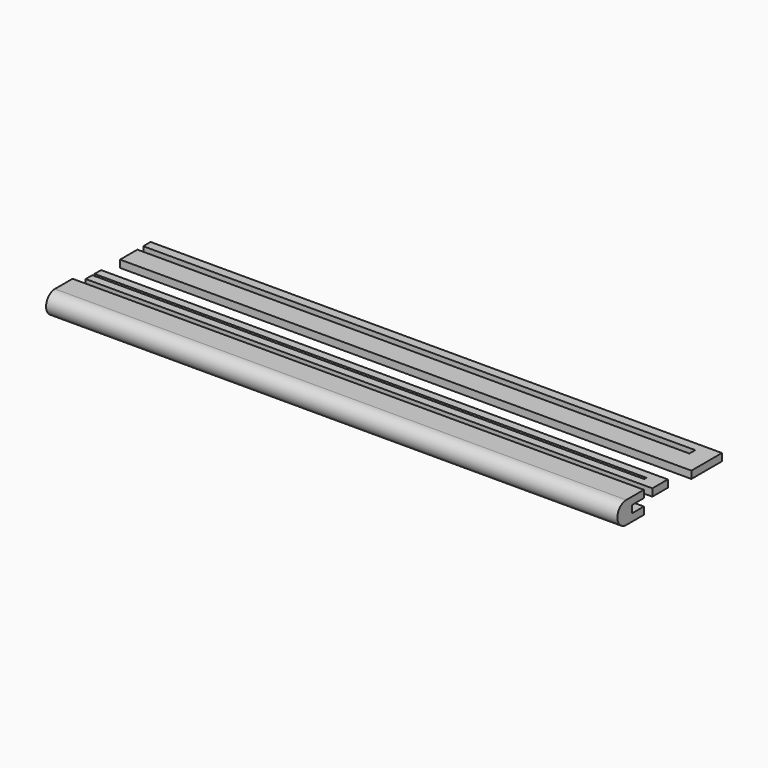
from build123d import *

# Parameters (mm, degrees)
F2_DEPTH = 8
F3_DEPTH = 8
F5_DEPTH = 600
F6_DEPTH = 21


with BuildPart() as f2:
    # F0 (on Top) → F2 (new body)
    with BuildSketch(Plane.XY):
        Polygon((581.663213, 16.226503), (-18.336787, 16.226503), (-18.336787, 7.226503), (581.663213, 7.226503), (581.663213, 4.226503), (-18.336787, 4.226503), (-18.336787, -4.773497), (581.663213, -4.773497), (597.663213, -4.773497), (597.663213, 16.226503), align=None)
    extrude(amount=F2_DEPTH)


with BuildPart() as f3:
    # F1 (on Top) → F3 (new body)
    with BuildSketch(Plane.XY):
        Polygon((-17.790569, 64.843432), (-17.790569, 41.343432), (582.209431, 41.343432), (603.209431, 41.343432), (603.209431, 82.843432), (582.209431, 82.843432), (-17.790569, 82.843432), (-17.790569, 72.843432), (582.209431, 72.843432), (582.209431, 64.843432), align=None)
    extrude(amount=F3_DEPTH)


with BuildPart() as f5:
    # F4 (on Right) → F5 (new body)
    with BuildSketch(Plane.YZ):
        with BuildLine():
            Line((-19.1921, 5.23994), (-19.1921, 13.23994))
            Line((-19.1921, 13.23994), (-43.1921, 13.23994))
            ThreePointArc((-43.1921, 13.23994), (-55.1921, 1.23994), (-43.1921, -10.76006))
            Line((-43.1921, -10.76006), (-19.1921, -10.76006))
            Line((-19.1921, -10.76006), (-19.1921, -2.76006))
            Line((-19.1921, -2.76006), (-35.1921, -2.76006))
            Line((-35.1921, -2.76006), (-35.1921, 5.23994))
            Line((-35.1921, 5.23994), (-19.1921, 5.23994))
        make_face()
    extrude(amount=F5_DEPTH)

    # F5_face (on face) → F6 (join)
    with BuildSketch(Plane(origin=(0, -37.686272, 1.23994), x_dir=(0, 1, 0), z_dir=(-1, 0, 0))):
        with BuildLine():
            Line((18.494172, -12), (18.494172, -4))
            Line((18.494172, -4), (2.494172, -4))
            Line((2.494172, -4), (2.494172, 4))
            Line((2.494172, 4), (18.494172, 4))
            Line((18.494172, 4), (18.494172, 12))
            Line((18.494172, 12), (-5.505828, 12))
            ThreePointArc((-5.505828, 12), (-17.505828, 0), (-5.505828, -12))
            Line((-5.505828, -12), (18.494172, -12))
        make_face()
    extrude(amount=F6_DEPTH)


solid = Compound([f2.part, f3.part, f5.part])
